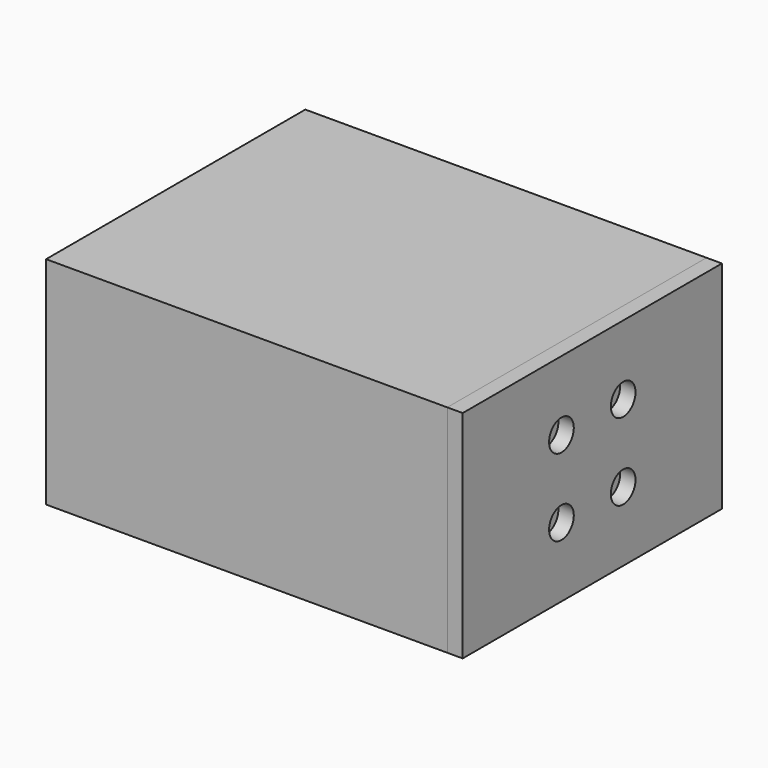
from build123d import *

# Parameters (mm, degrees)
BOX003_W          = 36
BOX003_H          = 40
BOX003_DEPTH      = 1.5
CYLINDER001_R     = 2.2
CYLINDER001_DEPTH = 28
ARRAY001_Y_COUNT  = 2
ARRAY001_Y_PITCH  = 30
BOX005_W          = 10
BOX005_H          = 10
BOX005_DEPTH      = 3
CHAMFER_SIZE      = 2
ARRAY_Y_COUNT     = 2
ARRAY_Y_PITCH     = 32
BOX_W             = 50
BOX_H             = 38
BOX_DEPTH         = 24
BOX004_W          = 10
BOX004_H          = 18
BOX004_DEPTH      = 11
CYLINDER_R        = 4.5
CYLINDER_DEPTH    = 10
CYLINDER002_R     = 2
CYLINDER002_DEPTH = 100
ARRAY002_Y_COUNT  = 4
ARRAY002_Y_PITCH  = 10
BOX001_W          = 50
BOX001_H          = 40
BOX001_DEPTH      = 1.5
BOX002_W          = 52
BOX002_H          = 42
BOX002_DEPTH      = 28
CYLINDER003_R     = 1.5
CYLINDER003_DEPTH = 28
ARRAY003_Y_COUNT  = 2
ARRAY003_Y_PITCH  = 30
CYLINDER004_R     = 2
CYLINDER004_DEPTH = 100
ARRAY004_Y_COUNT  = 2
ARRAY004_Y_PITCH  = 10
ARRAY004_Z_COUNT  = 2
ARRAY004_Z_PITCH  = 10
BOX007_W          = 13.8
BOX007_H          = 7
BOX007_DEPTH      = 21.4
BOX006_W          = 2
BOX006_H          = 42
BOX006_DEPTH      = 28
BOX008_W          = 2
BOX008_H          = 36
BOX008_DEPTH      = 1
BOX009_W          = 50
BOX009_H          = 38
BOX009_DEPTH      = 24
BOX010_W          = 50
BOX010_H          = 40
BOX010_DEPTH      = 1.5
BOX011_W          = 52
BOX011_H          = 42
BOX011_DEPTH      = 28


with BuildPart() as pcb_mockup:
    # Box003 → Box003 (new body)
    with BuildSketch(Plane(origin=(2, 1, 7), x_dir=(1, 0, 0), z_dir=(0, 0, 1))):
        with Locations((18, 20)):
            Rectangle(BOX003_W, BOX003_H)
    extrude(amount=BOX003_DEPTH)


with BuildPart() as bolt_hole_array:
    # Cylinder001 → Cylinder001 (new body)
    with BuildSketch(Plane.XY):
        Circle(CYLINDER001_R)
    extrude(amount=CYLINDER001_DEPTH)

    # Array001 Y: bolt hole array ×2


with BuildPart() as bolt_hole_array_1:
    add(bolt_hole_array.part)
    with Locations(*[(0, i * ARRAY001_Y_PITCH, 0) for i in range(1, ARRAY001_Y_COUNT)]):
        add(bolt_hole_array.part)


with BuildPart() as bolt_hole_array_2:
    # Array001 placement: moved
    add(bolt_hole_array_1.part.moved(Location((47, 6, 0))))


with BuildPart() as bolt_hole_stand_array:
    # Box005 → Box005 (new body)
    with BuildSketch(Plane(origin=(42, 0, 0), x_dir=(1, 0, 0), z_dir=(0, 0, 1))):
        with Locations((5, 5)):
            Rectangle(BOX005_W, BOX005_H)
    extrude(amount=BOX005_DEPTH)

    # Chamfer
    chamfer_edges = [bolt_hole_stand_array.edges().sort_by_distance(p)[0] for p in [
        (42, 5, 3),
    ]]
    chamfer(chamfer_edges, length=CHAMFER_SIZE)

    # Array Y: bolt hole stand array ×2


with BuildPart() as bolt_hole_stand_array_1:
    add(bolt_hole_stand_array.part)
    with Locations(*[(0, i * ARRAY_Y_PITCH, 0) for i in range(1, ARRAY_Y_COUNT)]):
        add(bolt_hole_stand_array.part)


with BuildPart() as part_mirroring:
    # Part__Mirroring: instance of bolt hole stand array
    add(bolt_hole_stand_array_1.part.mirror(Plane(origin=(0, 0, 14), x_dir=(0, 1, 0), z_dir=(0, 0, 1))))


with BuildPart() as internal_cube:
    # Box → Box (new body)
    with BuildSketch(Plane(origin=(2, 2, 2), x_dir=(1, 0, 0), z_dir=(0, 0, 1))):
        with Locations((25, 19)):
            Rectangle(BOX_W, BOX_H)
    extrude(amount=BOX_DEPTH)


with BuildPart() as usb_hole_cube:
    # Box004 → Box004 (new body)
    with BuildSketch(Plane(origin=(0, 12, 7), x_dir=(1, 0, 0), z_dir=(0, 0, 1))):
        with Locations((5, 9)):
            Rectangle(BOX004_W, BOX004_H)
    extrude(amount=BOX004_DEPTH)


with BuildPart() as wire_hole:
    # Cylinder → Cylinder (new body)
    with BuildSketch(Plane(origin=(44.5, 21, 0), x_dir=(1, 0, 0), z_dir=(0, 0, 1))):
        Circle(CYLINDER_R)
    extrude(amount=CYLINDER_DEPTH)


with BuildPart() as ventilation_hole_array:
    # Cylinder002 → Cylinder002 (new body)
    with BuildSketch(Plane(origin=(50, 0, 22), x_dir=(0, 1, 0), z_dir=(-1, 0, 0))):
        Circle(CYLINDER002_R)
    extrude(amount=CYLINDER002_DEPTH)

    # Array002 Y: ventilation hole array ×4


with BuildPart() as ventilation_hole_array_1:
    add(ventilation_hole_array.part)
    with Locations(*[(0, i * ARRAY002_Y_PITCH, 0) for i in range(1, ARRAY002_Y_COUNT)]):
        add(ventilation_hole_array.part)


with BuildPart() as ventilation_hole_array_2:
    # Array002 placement: moved
    add(ventilation_hole_array_1.part.moved(Location((0, 6, 0))))


with BuildPart() as extract_fusion:
    # Box001 → Box001 (new body)
    with BuildSketch(Plane(origin=(2, 1, 7), x_dir=(1, 0, 0), z_dir=(0, 0, 1))):
        with Locations((25, 20)):
            Rectangle(BOX001_W, BOX001_H)
    extrude(amount=BOX001_DEPTH)

    # Fusion: union internal cube, usb hole cube, wire hole, ventilation hole array
    add(internal_cube.part)
    add(usb_hole_cube.part)
    add(wire_hole.part)
    add(ventilation_hole_array_2.part)


with BuildPart() as full_body_cut:
    # Box002 → Box002 (new body)
    with BuildSketch(Plane.XY):
        with Locations((26, 21)):
            Rectangle(BOX002_W, BOX002_H)
    extrude(amount=BOX002_DEPTH)

    # Cut: cut extract fusion
    add(extract_fusion.part, mode=Mode.SUBTRACT)

    # Fusion001: union Part__Mirroring, bolt hole stand array
    add(part_mirroring.part)
    add(bolt_hole_stand_array_1.part)

    # Cut001: cut bolt hole array
    add(bolt_hole_array_2.part, mode=Mode.SUBTRACT)


with BuildPart() as bolt_hole_array001:
    # Cylinder003 → Cylinder003 (new body)
    with BuildSketch(Plane.XY):
        Circle(CYLINDER003_R)
    extrude(amount=CYLINDER003_DEPTH)

    # Array003 Y: bolt hole array001 ×2


with BuildPart() as bolt_hole_array001_1:
    add(bolt_hole_array001.part)
    with Locations(*[(0, i * ARRAY003_Y_PITCH, 0) for i in range(1, ARRAY003_Y_COUNT)]):
        add(bolt_hole_array001.part)


with BuildPart() as bolt_hole_array001_2:
    # Array003 placement: moved
    add(bolt_hole_array001_1.part.moved(Location((47, 6, 0))))


with BuildPart() as wall_hole_fusion:
    # Cylinder004 → Cylinder004 (new body)
    with BuildSketch(Plane(origin=(100, 0, 9), x_dir=(0, 1, 0), z_dir=(-1, 0, 0))):
        Circle(CYLINDER004_R)
    extrude(amount=CYLINDER004_DEPTH)

    # Array004 Y: wall hole fusion ×2


with BuildPart() as wall_hole_fusion_1:
    add(wall_hole_fusion.part)
    with Locations(*[(0, i * ARRAY004_Y_PITCH, 0) for i in range(1, ARRAY004_Y_COUNT)]):
        add(wall_hole_fusion.part)

    # Array004 Z: wall hole fusion ×2


with BuildPart() as wall_hole_fusion_2:
    add(wall_hole_fusion_1.part)
    with Locations(*[(0, 0, i * ARRAY004_Z_PITCH) for i in range(1, ARRAY004_Z_COUNT)]):
        add(wall_hole_fusion_1.part)


with BuildPart() as wall_hole_fusion_3:
    # Array004 placement: moved
    add(wall_hole_fusion_2.part.moved(Location((0, 16, 0))))

    # Fusion003: union bolt hole array001
    add(bolt_hole_array001_2.part)


with BuildPart() as wall_side:
    # Box007 → Box007 (new body)
    with BuildSketch(Plane(origin=(38.2, 2.5, 3.3), x_dir=(1, 0, 0), z_dir=(0, 0, 1))):
        with Locations((6.9, 3.5)):
            Rectangle(BOX007_W, BOX007_H)
    extrude(amount=BOX007_DEPTH)


with BuildPart() as part_mirroring001:
    # Part__Mirroring001: instance of wall side
    add(wall_side.part.mirror(Plane(origin=(0, 21, 0), x_dir=(1, 0, 0), z_dir=(0, 1, 0))))


with BuildPart() as wall_cube:
    # Box006 → Box006 (new body)
    with BuildSketch(Plane(origin=(52, 0, 0), x_dir=(1, 0, 0), z_dir=(0, 0, 1))):
        with Locations((1, 21)):
            Rectangle(BOX006_W, BOX006_H)
    extrude(amount=BOX006_DEPTH)


with BuildPart() as y_wall:
    # Box008 → Box008 (new body)
    with BuildSketch(Plane(origin=(50, 3, 3.3), x_dir=(1, 0, 0), z_dir=(0, 0, 1))):
        with Locations((1, 18)):
            Rectangle(BOX008_W, BOX008_H)
    extrude(amount=BOX008_DEPTH)


with BuildPart() as part_mirroring002:
    # Part__Mirroring002: instance of y_wall
    add(y_wall.part.mirror(Plane(origin=(0, 0, 14), x_dir=(0, 1, 0), z_dir=(0, 0, 1))))


with BuildPart() as wall_cut:
    # Fusion002 base: copy of wall side
    add(wall_side.part)

    # Fusion002: union Part__Mirroring001, wall cube, Part__Mirroring002, y_wall
    add(part_mirroring001.part)
    add(wall_cube.part)
    add(part_mirroring002.part)
    add(y_wall.part)

    # Cut002: cut wall hole fusion
    add(wall_hole_fusion_3.part, mode=Mode.SUBTRACT)


with BuildPart() as internal_cube001:
    # Box009 → Box009 (new body)
    with BuildSketch(Plane(origin=(2, 2, 2), x_dir=(1, 0, 0), z_dir=(0, 0, 1))):
        with Locations((25, 19)):
            Rectangle(BOX009_W, BOX009_H)
    extrude(amount=BOX009_DEPTH)


with BuildPart() as pcb_extract_cube001:
    # Box010 → Box010 (new body)
    with BuildSketch(Plane(origin=(2, 1, 7), x_dir=(1, 0, 0), z_dir=(0, 0, 1))):
        with Locations((25, 20)):
            Rectangle(BOX010_W, BOX010_H)
    extrude(amount=BOX010_DEPTH)


with BuildPart() as external_cube001:
    # Box011 → Box011 (new body)
    with BuildSketch(Plane.XY):
        with Locations((26, 21)):
            Rectangle(BOX011_W, BOX011_H)
    extrude(amount=BOX011_DEPTH)


solid = Compound([pcb_mockup.part, full_body_cut.part, wall_cut.part, internal_cube001.part, pcb_extract_cube001.part, external_cube001.part])
